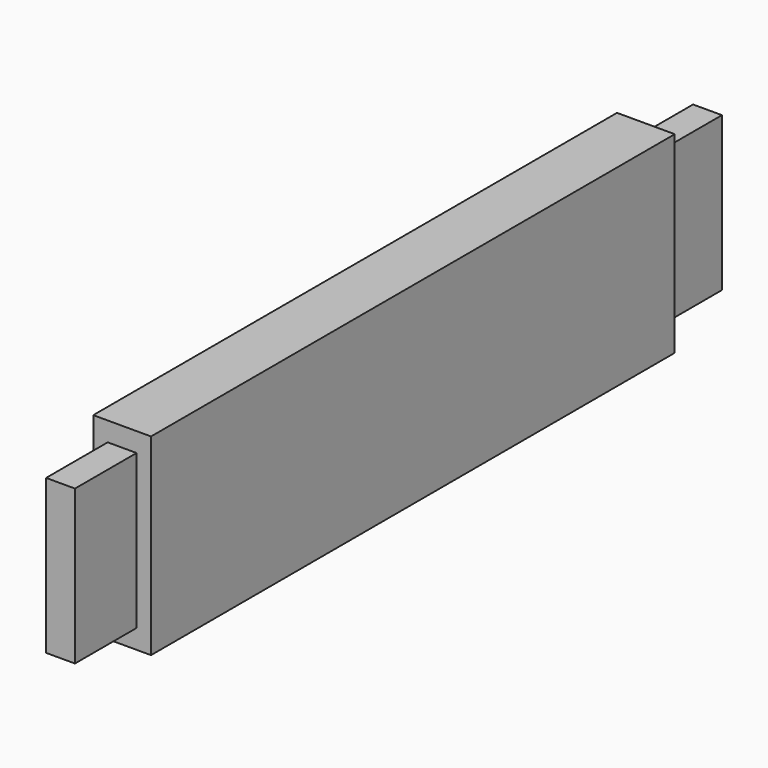
from build123d import *

# Parameters (mm, degrees)
F0_W     = 215.9
F0_H     = 63.5
F1_DEPTH = 19.05
F2_W     = 9.525
F2_H     = 50.8
F3_DEPTH = 25.4
F4_W     = 9.525
F4_H     = 50.8
F5_DEPTH = 25.4


with BuildPart() as f1:
    # F0 (on Right) → F1 (new body)
    with BuildSketch(Plane.YZ):
        with Locations((0, -31.75)):
            Rectangle(F0_W, F0_H)
    extrude(amount=F1_DEPTH)

    # F2 (on face) → F3 (join)
    with BuildSketch(Plane(origin=(0, 107.95, 0), x_dir=(-1, 0, 0), z_dir=(0, 1, 0))):
        with Locations((-9.525, -31.75)):
            Rectangle(F2_W, F2_H)
    extrude(amount=F3_DEPTH)

    # F4 (on face) → F5 (join)
    with BuildSketch(Plane.XZ.offset(107.95)):
        with Locations((9.525, -31.75)):
            Rectangle(F4_W, F4_H)
    extrude(amount=F5_DEPTH)


solid = f1.part
